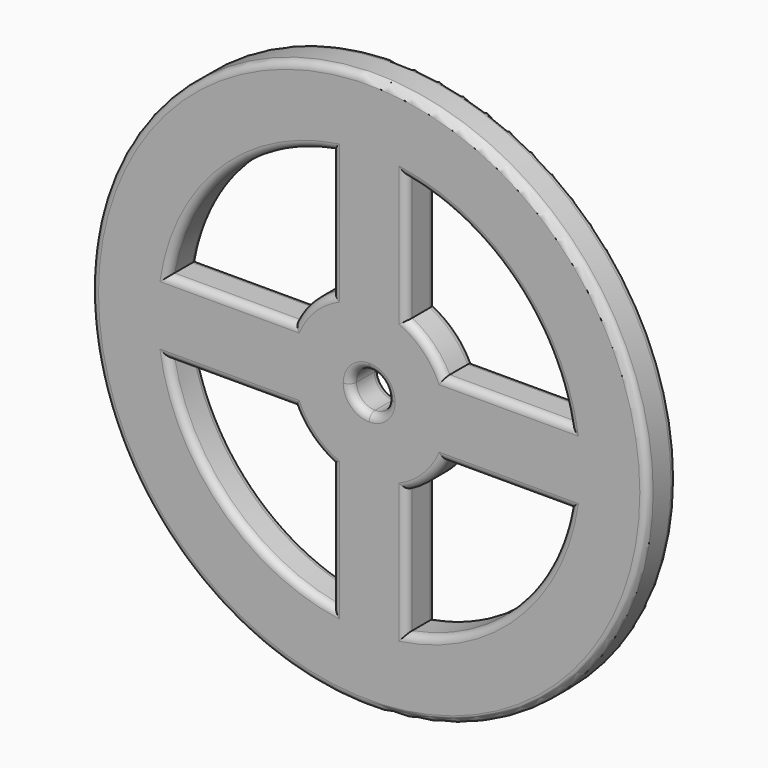
from build123d import *

# Parameters (mm, degrees)
F0_R     = 75
F1_DEPTH = 5
F2_R     = 2


with BuildPart() as f1:
    # F0 (on Front) → F1 (new body, symmetric)
    with BuildSketch(Plane.XZ):
        Circle(F0_R)
        with BuildLine():
            ThreePointArc((-20.155644, -10), (-15.909903, -15.909903), (-10, -20.155644))
            Line((-10, -20.155644), (-10, -54.083269))
            ThreePointArc((-10, -54.083269), (-38.890873, -38.890873), (-54.083269, -10))
            Line((-54.083269, -10), (-20.155644, -10))
        make_face(mode=Mode.SUBTRACT)
        with BuildLine():
            ThreePointArc((10, -20.155644), (15.909903, -15.909903), (20.155644, -10))
            Line((20.155644, -10), (54.083269, -10))
            ThreePointArc((54.083269, -10), (38.890873, -38.890873), (10, -54.083269))
            Line((10, -54.083269), (10, -20.155644))
        make_face(mode=Mode.SUBTRACT)
        with BuildLine():
            ThreePointArc((-54.083269, 10), (-38.890873, 38.890873), (-10, 54.083269))
            Line((-10, 54.083269), (-10, 20.155644))
            ThreePointArc((-10, 20.155644), (-15.909903, 15.909903), (-20.155644, 10))
            Line((-20.155644, 10), (-54.083269, 10))
        make_face(mode=Mode.SUBTRACT)
        with BuildLine():
            ThreePointArc((0, 5), (3.535534, 3.535534), (5, 0))
            ThreePointArc((5, 0), (3.535534, -3.535534), (0, -5))
            ThreePointArc((0, -5), (-3.535534, -3.535534), (-5, 0))
            ThreePointArc((-5, 0), (-3.535534, 3.535534), (0, 5))
        make_face(mode=Mode.SUBTRACT)
        with BuildLine():
            ThreePointArc((20.155644, 10), (15.909903, 15.909903), (10, 20.155644))
            Line((10, 20.155644), (10, 54.083269))
            ThreePointArc((10, 54.083269), (38.890873, 38.890873), (54.083269, 10))
            Line((54.083269, 10), (20.155644, 10))
        make_face(mode=Mode.SUBTRACT)
    extrude(amount=F1_DEPTH, both=True)

    # F2
    f2_edges = [f1.edges().sort_by_distance(p)[0] for p in [
        (-75, -5, 0),
        (-38.890873, -5, 38.890873),
        (-10, -5, 37.119457),
        (-15.909903, -5, 15.909903),
        (-37.119457, -5, 10),
        (-37.119457, -5, -10),
        (-38.890873, -5, -38.890873),
        (-10, -5, -37.119457),
        (-15.909903, -5, -15.909903),
        (15.909903, -5, -15.909903),
        (37.119457, -5, -10),
        (38.890873, -5, -38.890873),
        (10, -5, -37.119457),
        (-3.535534, -5, -3.535534),
        (15.909903, -5, 15.909903),
        (10, -5, 37.119457),
        (38.890873, -5, 38.890873),
        (37.119457, -5, 10),
        (-75, 5, 0),
        (-38.890873, 5, 38.890873),
        (-37.119457, 5, 10),
        (-15.909903, 5, 15.909903),
        (-10, 5, 37.119457),
        (10, 5, 37.119457),
        (38.890873, 5, 38.890873),
        (15.909903, 5, 15.909903),
        (37.119457, 5, 10),
        (15.909903, 5, -15.909903),
        (10, 5, -37.119457),
        (38.890873, 5, -38.890873),
        (37.119457, 5, -10),
        (-15.909903, 5, -15.909903),
        (-10, 5, -37.119457),
        (-38.890873, 5, -38.890873),
        (-37.119457, 5, -10),
        (-3.535534, 5, -3.535534),
        (-3.535534, 5, 3.535534),
        (3.535534, 5, 3.535534),
        (3.535534, 5, -3.535534),
    ]]
    fillet(f2_edges, radius=F2_R)


solid = f1.part
